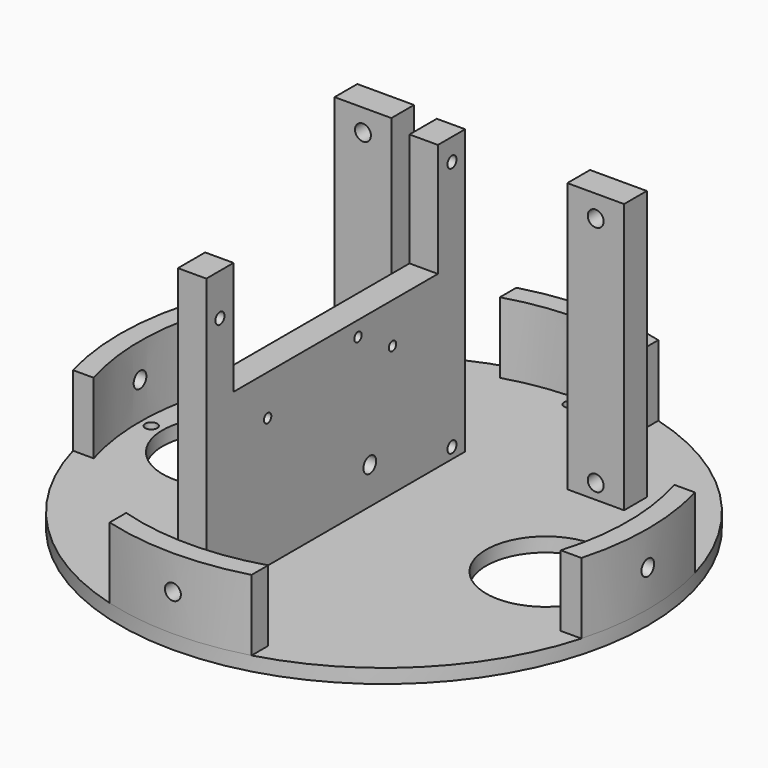
from build123d import *

# Parameters (mm, degrees)
CYLINDER135_R     = 2.8
CYLINDER135_DEPTH = 300
CYLINDER136_R     = 2.8
CYLINDER136_DEPTH = 300
SKETCH043_R       = 2.125
EXTRUDE025_DEPTH  = 20
EXTRUDE021_DEPTH  = 30
SKETCH034_W       = 20
SKETCH034_H       = 95
SKETCH034_R       = 2.8
EXTRUDE016_DEPTH  = 10
SKETCH035_R       = 2
SKETCH035_R_2     = 1.625
EXTRUDE017_DEPTH  = 10
SKETCH033_R       = 93
SKETCH033_R_2     = 21
SKETCH033_R_3     = 2
SKETCH033_R_4     = 1.625
EXTRUDE015_DEPTH  = 5


with BuildPart() as cylinder135:
    # Cylinder135 → Cylinder135 (new body)
    with BuildSketch(Plane(origin=(0, 0, 90), x_dir=(1, 0, 0), z_dir=(0, -1, 0))):
        Circle(CYLINDER135_R)
    extrude(amount=CYLINDER135_DEPTH)


with BuildPart() as m4heatsetcuts002:
    # Cylinder136 → Cylinder136 (new body)
    with BuildSketch(Plane(origin=(-150, -150, 90), x_dir=(0, 1, 0), z_dir=(1, 0, 0))):
        Circle(CYLINDER136_R)
    extrude(amount=CYLINDER136_DEPTH)

    # Fusion086: union Cylinder135
    add(cylinder135.part)


with BuildPart() as m4heatsetcuts002_1:
    # Fusion086 placement: moved
    add(m4heatsetcuts002.part.moved(Location((0, 0, -257))))


with BuildPart() as m4vercuts:
    # Sketch043 → Extrude025 (new body)
    with BuildSketch(Plane.XY):
        with Locations((0, -68)):
            Circle(SKETCH043_R)
        with Locations((82, -150)):
            Circle(SKETCH043_R)
        with Locations((0, -232)):
            Circle(SKETCH043_R)
        with Locations((-82, -150)):
            Circle(SKETCH043_R)
    extrude(amount=EXTRUDE025_DEPTH)


with BuildPart() as m4vercuts_1:
    # Extrude025 placement: moved
    add(m4vercuts.part.moved(Location((0, 0, -194.5))))


with BuildPart() as obj1:
    # Sketch039 → Extrude021 (new body)
    with BuildSketch(Plane.XY):
        with BuildLine():
            ThreePointArc((-89.576783, -125), (-93, -150), (-89.576783, -175))
            Line((-89.576783, -175), (-82.286086, -175))
            ThreePointArc((-82.286086, -125), (-86, -150), (-82.286086, -175))
            Line((-89.576783, -125), (-82.286086, -125))
        make_face()
        with BuildLine():
            ThreePointArc((25, -60.423217), (0, -57), (-25, -60.423217))
            Line((-25, -60.423217), (-25, -67.713914))
            ThreePointArc((25, -67.713914), (0, -64), (-25, -67.713914))
            Line((25, -60.423217), (25, -67.713914))
        make_face()
        with BuildLine():
            ThreePointArc((89.576783, -175), (93, -150), (89.576783, -125))
            Line((89.576783, -125), (82.286086, -125))
            ThreePointArc((82.286086, -175), (86, -150), (82.286086, -125))
            Line((89.576783, -175), (82.286086, -175))
        make_face()
        with BuildLine():
            ThreePointArc((-25, -239.576783), (0, -243), (25, -239.576783))
            Line((25, -239.576783), (25, -232.286086))
            ThreePointArc((-25, -232.286086), (0, -236), (25, -232.286086))
            Line((-25, -239.576783), (-25, -232.286086))
        make_face()
    extrude(amount=EXTRUDE021_DEPTH)


with BuildPart() as obj1_1:
    # Extrude021 placement: moved
    add(obj1.part.moved(Location((0, 0, -185))))


with BuildPart() as fanholder:
    # Sketch034 → Extrude016 (new body)
    with BuildSketch(Plane.XZ):
        with Locations((-41, -132.5)):
            Rectangle(SKETCH034_W, SKETCH034_H)
        with Locations((-41, -92.75)):
            Circle(SKETCH034_R, mode=Mode.SUBTRACT)
        with Locations((-41, -174.75)):
            Circle(SKETCH034_R, mode=Mode.SUBTRACT)
        with Locations((41, -132.5)):
            Rectangle(SKETCH034_W, SKETCH034_H)
        with Locations((41, -92.75)):
            Circle(SKETCH034_R, mode=Mode.SUBTRACT)
        with Locations((41, -174.75)):
            Circle(SKETCH034_R, mode=Mode.SUBTRACT)
    extrude(amount=EXTRUDE016_DEPTH)


with BuildPart() as fanholder_1:
    # Extrude016 placement: moved
    add(fanholder.part.moved(Location((0, -98, 0))))


with BuildPart() as obj2:
    # Sketch035 → Extrude017 (new body)
    with BuildSketch(Plane.YZ):
        Polygon((-222, -80), (-210, -80), (-210, -120), (-120, -120), (-120, -80), (-108, -80), (-108, -180), (-222, -180), align=None)
        with Locations((-216, -94.75)):
            Circle(SKETCH035_R, mode=Mode.SUBTRACT)
        with Locations((-113.8, -87.8)):
            Circle(SKETCH035_R, mode=Mode.SUBTRACT)
        with Locations((-113.8, -176.2)):
            Circle(SKETCH035_R, mode=Mode.SUBTRACT)
        with Locations((-216, -176.2)):
            Circle(SKETCH035_R, mode=Mode.SUBTRACT)
        with Locations((-155.2, -125.25)):
            Circle(SKETCH035_R_2, mode=Mode.SUBTRACT)
        with Locations((-140, -134.25)):
            Circle(SKETCH035_R_2, mode=Mode.SUBTRACT)
        with Locations((-195, -134.25)):
            Circle(SKETCH035_R_2, mode=Mode.SUBTRACT)
    extrude(amount=EXTRUDE017_DEPTH)


with BuildPart() as obj2_1:
    # Extrude017 placement: moved
    add(obj2.part.moved(Location((-15, 0, 0))))


with BuildPart() as level4s001:
    # Sketch033 → Extrude015 (new body)
    with BuildSketch(Plane.XY):
        with Locations((0, -150)):
            Circle(SKETCH033_R)
        with Locations((-57, -150)):
            Circle(SKETCH033_R_2, mode=Mode.SUBTRACT)
        with Locations((-41.75, -126)):
            Circle(SKETCH033_R_3, mode=Mode.SUBTRACT)
        with Locations((-30.75, -129.1)):
            Circle(SKETCH033_R_4, mode=Mode.SUBTRACT)
        with Locations((-30.75, -203.5)):
            Circle(SKETCH033_R_4, mode=Mode.SUBTRACT)
        with Locations((57, -150)):
            Circle(SKETCH033_R_2, mode=Mode.SUBTRACT)
    extrude(amount=EXTRUDE015_DEPTH)


with BuildPart() as level4s001_1:
    # Extrude015 placement: moved
    add(level4s001.part.moved(Location((0, 0, -185))))

    # Fusion077: union fanHolder, obj2
    add(fanholder_1.part)
    add(obj2_1.part)

    # Fusion081: union obj1
    add(obj1_1.part)

    # Cut037: cut m4VerCuts
    add(m4vercuts_1.part, mode=Mode.SUBTRACT)

    # Cut039: cut m4HeatSetCuts002
    add(m4heatsetcuts002_1.part, mode=Mode.SUBTRACT)


solid = level4s001_1.part
